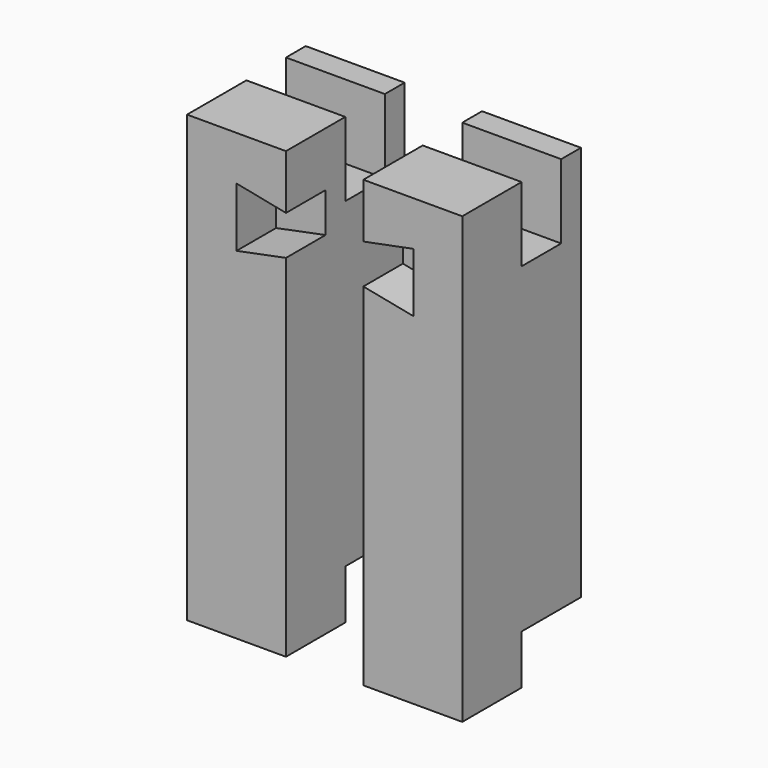
from build123d import *

# Parameters (mm, degrees)
F0_W      = 20
F0_H      = 30
F1_DEPTH  = 90
F2_W      = 20
F2_H      = 10
F3_DEPTH  = 15
F4_W      = 20
F4_H      = 15
F5_DEPTH  = 10
F7_DEPTH  = 10
F8_W      = 20
F8_H      = 30
F9_DEPTH  = 90
F10_W     = 10
F10_H     = 15
F10_W_2   = 15
F10_H_2   = 10
F11_DEPTH = 55.646162
F13_DEPTH = 10


with BuildPart() as f1:
    # F0 (on Top) → F1 (new body)
    with BuildSketch(Plane.XY):
        with Locations((-10, 15)):
            Rectangle(F0_W, F0_H)
    extrude(amount=F1_DEPTH)

    # F2 (on face) → F3 (cut)
    with BuildSketch(Plane.XY.offset(90)):
        with Locations((-10, 20)):
            Rectangle(F2_W, F2_H)
    extrude(amount=-F3_DEPTH, mode=Mode.SUBTRACT)

    # F4 (on face) → F5 (cut)
    with BuildSketch(Plane(origin=(0, 0, 0), x_dir=(1, 0, 0), z_dir=(0, 0, -1))):
        with Locations((-10, -22.5)):
            Rectangle(F4_W, F4_H)
    extrude(amount=-F5_DEPTH, mode=Mode.SUBTRACT)

    # F6 (on face) → F7 (cut)
    with BuildSketch(Plane.XZ):
        Polygon((0, 71), (0, 79), (-10, 81), (-10, 69), align=None)
    extrude(amount=-F7_DEPTH, mode=Mode.SUBTRACT)


with BuildPart() as f9:
    # F8 (on Top) → F9 (new body)
    with BuildSketch(Plane.XY):
        with Locations((25.645162, 15)):
            Rectangle(F8_W, F8_H)
    extrude(amount=F9_DEPTH)

    # F10 (on face) → F11 (cut, through all)
    with BuildSketch(Plane.YZ.offset(35.645162)):
        with Locations((20, 82.5)):
            Rectangle(F10_W, F10_H)
        with Locations((22.5, 5)):
            Rectangle(F10_W_2, F10_H_2)
    extrude(amount=-F11_DEPTH, mode=Mode.SUBTRACT)

    # F12 (on face) → F13 (cut)
    with BuildSketch(Plane.XZ):
        Polygon((15.645162, 79), (15.645162, 71), (25.829555, 69), (25.829555, 81), align=None)
    extrude(amount=-F13_DEPTH, mode=Mode.SUBTRACT)


solid = Compound([f1.part, f9.part])
